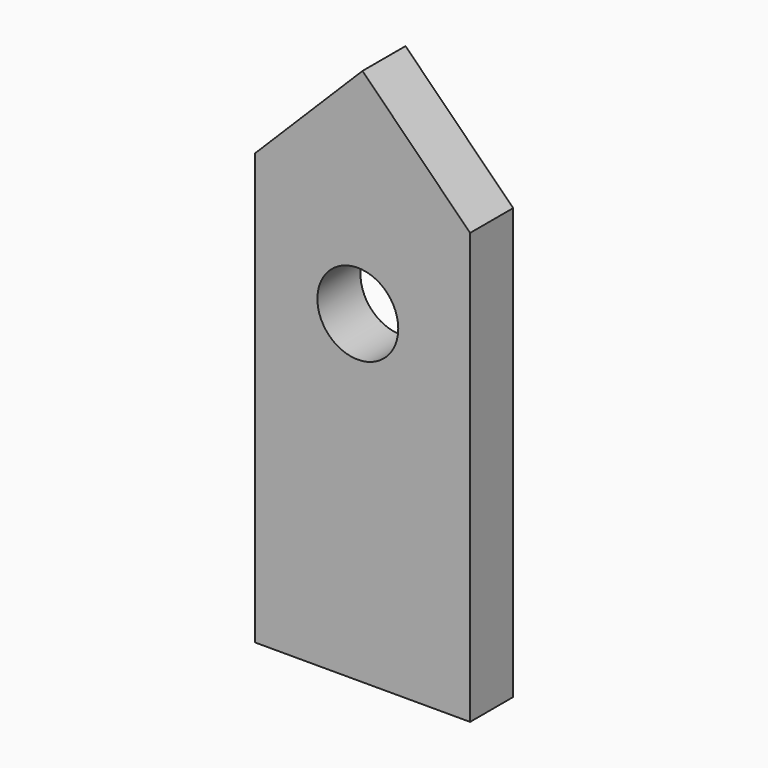
from build123d import *

# Parameters (mm, degrees)
F0_R     = 19.092128
F1_DEPTH = 25.4


with BuildPart() as f1:
    # F0 (on Front) → F1 (new body)
    with BuildSketch(Plane.XZ):
        Polygon((-46.776284, 84.461136), (-46.776284, -67.938864), (54.823716, -67.938864), (54.823716, 84.461136), (54.823716, 135.261136), (4.023716, 186.061136), (-46.776284, 135.261136), align=None)
        with Locations((1.826537, 84.461136)):
            Circle(F0_R, mode=Mode.SUBTRACT)
    extrude(amount=-F1_DEPTH)


solid = f1.part
